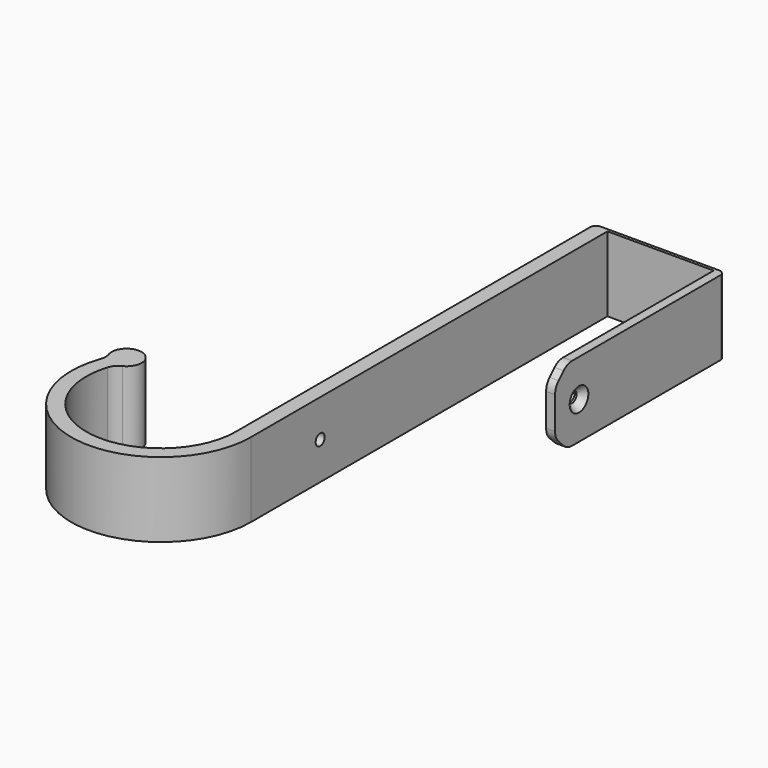
from build123d import *

# Parameters (mm, degrees)
F1_DEPTH             = 12.5
F2_SIZE              = 5
F3_R                 = 2
F4_R                 = 5
F6_R                 = 5
F8_D                 = 3.7973
F8_DEPTH             = 12.62
F8_CSINK_D           = 7.7978
F8_CSINK_ANGLE       = 82
F8_TIP               = 1.1408240143
F8_ON_F7_D           = 3.7973
F8_ON_F7_DEPTH       = 12.62
F8_ON_F7_CSINK_D     = 7.7978
F8_ON_F7_CSINK_ANGLE = 82
F8_ON_F7_TIP         = 1.1408240143


with BuildPart() as f1:
    # F0 (on Top) → F1 (new body, symmetric)
    with BuildSketch(Plane.XY):
        with BuildLine():
            Line((0, 0), (35.5, 0))
            Line((35.5, 0), (35.5, -70))
            Line((35.5, -70), (38.5, -70))
            Line((38.5, -70), (38.5, 1))
            Line((38.5, 1), (-5, 1))
            Line((-5, 1), (-5, -149))
            ThreePointArc((-5, -149), (-35.1077410922, -173.4726578233), (-52.9128784748, -139))
            ThreePointArc((-52.9128784748, -139), (-51.4721155147, -129.4487973384), (-57.4954541697, -137))
            ThreePointArc((-57.4954541697, -137), (-36.1292893107, -178.3671893879), (0, -149))
            Line((0, -149), (0, 0))
        make_face()
    extrude(amount=F1_DEPTH, both=True)

    # F2
    f2_edges = [f1.edges().sort_by_distance(p)[0] for p in [
        (37, -70, 12.5),
        (37, -70, -12.5),
    ]]
    chamfer(f2_edges, length=F2_SIZE)

    # F3
    f3_edges = [f1.edges().sort_by_distance(p)[0] for p in [
        (-5, 1, 0),
        (38.5, 1, 0),
    ]]
    fillet(f3_edges, radius=F3_R)

    # F4
    f4_edges = [f1.edges().sort_by_distance(p)[0] for p in [
        (37, -65, 12.5),
        (37, -70, 7.5),
        (37, -65, -12.5),
        (37, -70, -7.5),
    ]]
    fillet(f4_edges, radius=F4_R)

    # F6
    f6_edges = [f1.edges().sort_by_distance(p)[0] for p in [
        (-57.495454, -137, 0),
        (-52.912878, -139, 0),
    ]]
    fillet(f6_edges, radius=F6_R)

    # F8
    with Locations(Plane(origin=(-5, 0, 0), x_dir=(0, -1, 0), z_dir=(-1, 0, 0))):
        with Locations((120, 0)):
            CounterSinkHole(F8_D / 2, F8_CSINK_D / 2, depth=F8_DEPTH, counter_sink_angle=F8_CSINK_ANGLE)
            with Locations((0, 0, -(F8_DEPTH + F8_TIP / 2))):  # 118° drill point
                Cone(0, F8_D / 2, F8_TIP, mode=Mode.SUBTRACT)

    # F8 on F7
    with Locations(Plane.YZ.offset(38.5)):
        with Locations((-60, 0)):
            CounterSinkHole(F8_ON_F7_D / 2, F8_ON_F7_CSINK_D / 2, depth=F8_ON_F7_DEPTH, counter_sink_angle=F8_ON_F7_CSINK_ANGLE)
            with Locations((0, 0, -(F8_ON_F7_DEPTH + F8_ON_F7_TIP / 2))):  # 118° drill point
                Cone(0, F8_ON_F7_D / 2, F8_ON_F7_TIP, mode=Mode.SUBTRACT)


solid = f1.part
